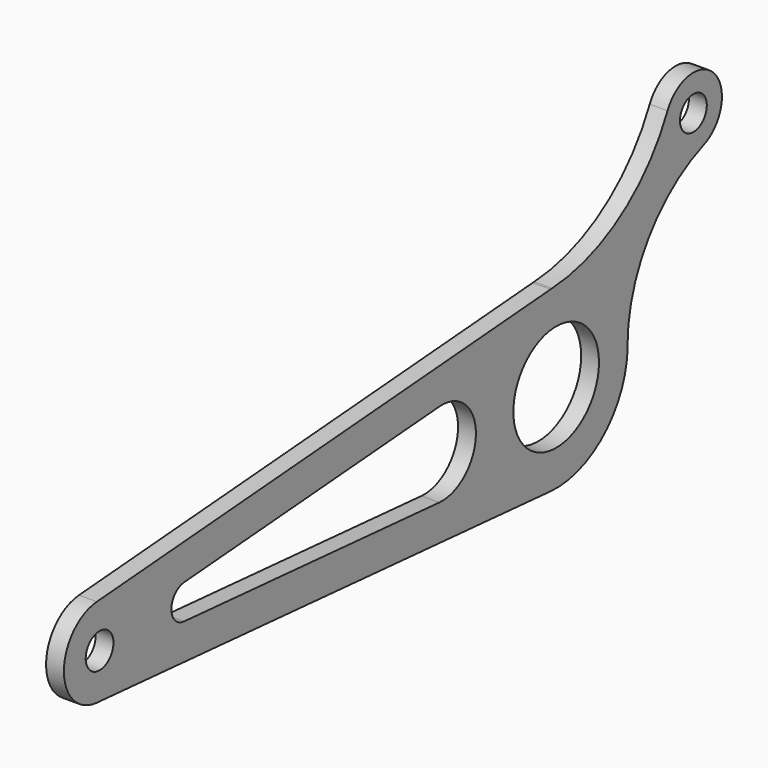
from build123d import *

# Parameters (mm, degrees)
F0_R     = 9.525
F0_R_2   = 3.0861
F1_DEPTH = 3.175
F2_R     = 2.9845
F3_DEPTH = 3.175


with BuildPart() as f1:
    # F0 (on Right) → F1 (new body)
    with BuildSketch(Plane.YZ):
        with BuildLine():
            Line((-102.220117, -7.91324), (-1.240234, -15.826479))
            ThreePointArc((-1.240234, -15.826479), (9.855756, -12.445067), (15.68961, -2.419045))
            ThreePointArc((15.68961, -2.419045), (15.808298, -1.453729), (15.867652, -0.482956))
            ThreePointArc((15.867652, -0.482956), (15.869841, -0.404681), (15.871644, -0.326396))
            ThreePointArc((15.871644, -0.326396), (10.897173, 11.544143), (-1.240234, 15.826479))
            Line((-1.240234, 15.826479), (-102.220117, 7.91324))
            ThreePointArc((-102.220117, 7.91324), (-109.5375, 0), (-102.220117, -7.91324))
        make_face()
        with BuildLine():
            ThreePointArc((-25.989111, 7.517578), (-17.859375, 0), (-25.989111, -7.517578))
            Line((-25.989111, -7.517578), (-82.790295, -3.06638))
            ThreePointArc((-82.790295, -3.06638), (-85.625781, 0), (-82.790295, 3.06638))
            Line((-82.790295, 3.06638), (-25.989111, 7.517578))
        make_face(mode=Mode.SUBTRACT)
        Circle(F0_R, mode=Mode.SUBTRACT)
        with Locations((-101.6, 0)):
            Circle(F0_R_2, mode=Mode.SUBTRACT)
    extrude(amount=F1_DEPTH)

    # F2 (on face) → F3 (join)
    with BuildSketch(Plane.YZ.offset(3.175)):
        with BuildLine():
            ThreePointArc((32.802387, 24.602289), (35.182837, 34.857256), (24.782335, 33.226167))
            ThreePointArc((24.782335, 33.226167), (14.335256, 20.997637), (-0.901989, 15.849355))
            ThreePointArc((-0.901989, 15.849355), (10.901756, 11.539816), (15.875, 0))
            ThreePointArc((15.875, 0), (20.515606, 14.931586), (32.802387, 24.602289))
        make_face()
        with Locations((30.532871, 30.532871)):
            Circle(F2_R, mode=Mode.SUBTRACT)
    extrude(amount=-F3_DEPTH)


solid = f1.part
